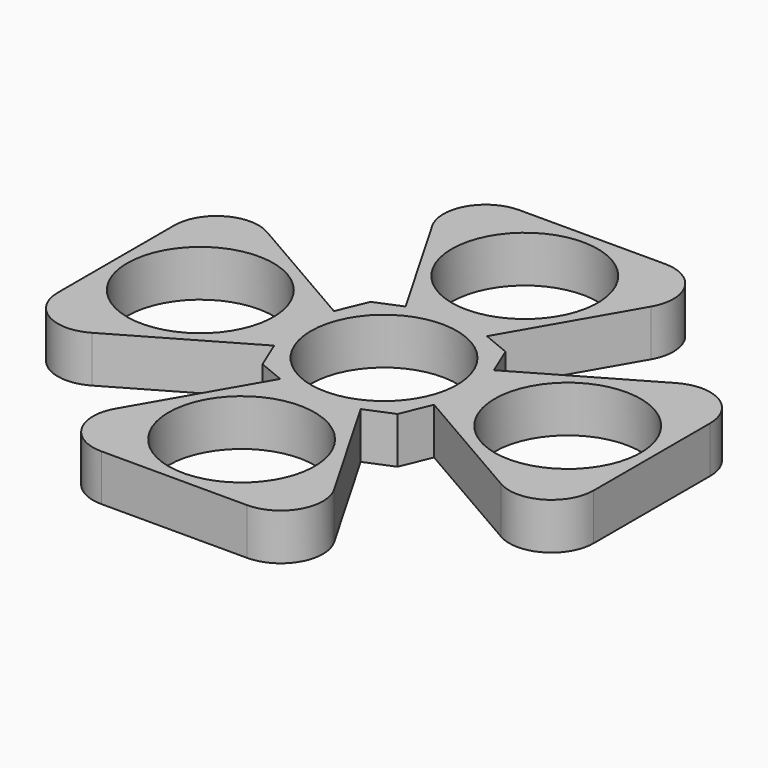
from build123d import *

# Parameters (mm, degrees)
F0_R     = 11
F1_DEPTH = 7
F2_D     = 22


with BuildPart() as f1:
    # F0 (on Top) → F1 (new body)
    with BuildSketch(Plane.XY):
        with BuildLine():
            Line((16.352598, -29.827668), (5.998279, -11.893462))
            Line((5.998279, -11.893462), (4.426611, -12.544469))
            Line((4.426611, -12.544469), (13.431306, -28.141059))
            ThreePointArc((13.431306, -28.141059), (13.431306, -34.491059), (7.932045, -37.666059))
            Line((7.932045, -37.666059), (-8.176027, -37.666059))
            ThreePointArc((-8.176027, -37.666059), (-13.675289, -34.491059), (-13.675289, -28.141059))
            Line((-13.675289, -28.141059), (-4.623506, -12.462912))
            Line((-4.623506, -12.462912), (-6.195175, -11.811905))
            Line((-6.195175, -11.811905), (-16.59658, -29.827668))
            ThreePointArc((-16.59658, -29.827668), (-16.59658, -36.177668), (-11.097319, -39.352668))
            Line((-11.097319, -39.352668), (10.853336, -39.352668))
            ThreePointArc((10.853336, -39.352668), (16.352598, -36.177668), (16.352598, -29.827668))
        make_face()
        with BuildLine():
            Line((30.836118, 16.474589), (12.047307, 5.626864))
            Line((12.047307, 5.626864), (12.698314, 4.055195))
            Line((12.698314, 4.055195), (14.378031, 0))
            Line((14.378031, 0), (12.698314, -4.055195))
            Line((12.698314, -4.055195), (12.047307, -5.626864))
            Line((12.047307, -5.626864), (30.836118, -16.474589))
            ThreePointArc((30.836118, -16.474589), (37.186118, -16.474589), (40.361118, -10.975328))
            Line((40.361118, -10.975328), (40.361118, 10.975328))
            ThreePointArc((40.361118, 10.975328), (37.186118, 16.474589), (30.836118, 16.474589))
        make_face()
        with BuildLine():
            Line((-12.698314, 4.055195), (-12.047307, 5.626864))
            Line((-12.047307, 5.626864), (-30.836118, 16.474589))
            ThreePointArc((-30.836118, 16.474589), (-37.186118, 16.474589), (-40.361118, 10.975328))
            Line((-40.361118, 10.975328), (-40.361118, -10.975328))
            ThreePointArc((-40.361118, -10.975328), (-37.186118, -16.474589), (-30.836118, -16.474589))
            Line((-30.836118, -16.474589), (-12.047307, -5.626864))
            Line((-12.047307, -5.626864), (-12.698314, -4.055195))
            Line((-12.698314, -4.055195), (-29.149509, -13.553298))
            ThreePointArc((-29.149509, -13.553298), (-35.499509, -13.553298), (-38.674509, -8.054036))
            Line((-38.674509, -8.054036), (-38.674509, 8.054036))
            ThreePointArc((-38.674509, 8.054036), (-35.499509, 13.553298), (-29.149509, 13.553298))
            Line((-29.149509, 13.553298), (-12.698314, 4.055195))
        make_face()
        with BuildLine():
            Line((13.431306, -28.141059), (4.426611, -12.544469))
            Line((4.426611, -12.544469), (0, -14.378031))
            Line((0, -14.378031), (-4.623506, -12.462912))
            Line((-4.623506, -12.462912), (-13.675289, -28.141059))
            ThreePointArc((-13.675289, -28.141059), (-13.675289, -34.491059), (-8.176027, -37.666059))
            Line((-8.176027, -37.666059), (7.932045, -37.666059))
            ThreePointArc((7.932045, -37.666059), (13.431306, -34.491059), (13.431306, -28.141059))
        make_face()
        Polygon((5.998279, 11.893462), (0, 14.378031), (-6.195175, 11.811905), (-10.166803, 10.166803), (-12.047307, 5.626864), (-12.698314, 4.055195), (-14.378031, 0), (-12.698314, -4.055195), (-12.047307, -5.626864), (-10.166803, -10.166803), (-6.195175, -11.811905), (-4.623506, -12.462912), (0, -14.378031), (4.426611, -12.544469), (5.998279, -11.893462), (10.166803, -10.166803), (12.047307, -5.626864), (12.698314, -4.055195), (14.378031, 0), (12.698314, 4.055195), (12.047307, 5.626864), (10.166803, 10.166803), align=None)
        Circle(F0_R, mode=Mode.SUBTRACT)
        with BuildLine():
            Line((-6.195175, 11.811905), (0, 14.378031))
            Line((0, 14.378031), (5.998279, 11.893462))
            Line((5.998279, 11.893462), (16.352598, 29.827668))
            ThreePointArc((16.352598, 29.827668), (16.352598, 36.177668), (10.853336, 39.352668))
            Line((10.853336, 39.352668), (-11.097319, 39.352668))
            ThreePointArc((-11.097319, 39.352668), (-16.59658, 36.177668), (-16.59658, 29.827668))
            Line((-16.59658, 29.827668), (-6.195175, 11.811905))
        make_face()
        with BuildLine():
            Line((-14.378031, 0), (-12.698314, 4.055195))
            Line((-12.698314, 4.055195), (-29.149509, 13.553298))
            ThreePointArc((-29.149509, 13.553298), (-35.499509, 13.553298), (-38.674509, 8.054036))
            Line((-38.674509, 8.054036), (-38.674509, -8.054036))
            ThreePointArc((-38.674509, -8.054036), (-35.499509, -13.553298), (-29.149509, -13.553298))
            Line((-29.149509, -13.553298), (-12.698314, -4.055195))
            Line((-12.698314, -4.055195), (-14.378031, 0))
        make_face()
        Circle(F0_R)
    extrude(amount=F1_DEPTH)

    # F2 (through all)
    with Locations(Plane(origin=(0, 0, 0), x_dir=(1, 0, 0), z_dir=(0, 0, -1))):
        with Locations((-27.674509, 0), (-0.121991, -26.666059), (0, 0), (27.674509, 0), (-0.121991, 26.666059)):
            Hole(F2_D / 2)


solid = f1.part
